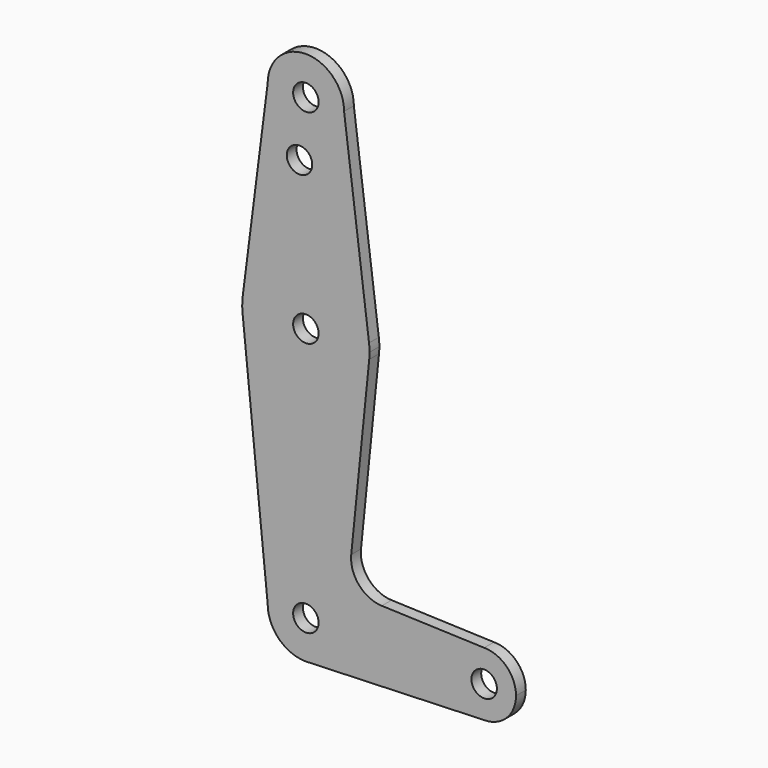
from build123d import *

# Parameters (mm, degrees)
F0_R     = 3.175
F1_DEPTH = 3.048


with BuildPart() as f1:
    # F0 (on Front) → F1 (new body)
    with BuildSketch(Plane.XZ):
        with BuildLine():
            ThreePointArc((-9.525, 114.3), (0, 104.775), (9.525, 114.3))
            ThreePointArc((9.525, 114.3), (0, 123.825), (-9.525, 114.3))
        make_face()
        with Locations((0, 114.3)):
            Circle(F0_R, mode=Mode.SUBTRACT)
        with BuildLine():
            Line((15.747457, 65.508289), (9.525, 114.3))
            ThreePointArc((9.525, 114.3), (0, 104.775), (-9.525, 114.3))
            Line((-9.525, 114.3), (-15.747457, 65.508289))
            ThreePointArc((-15.747457, 65.508289), (0, 79.375), (15.747457, 65.508289))
        make_face()
        with Locations((-1.5875, 100.0252)):
            Circle(F0_R, mode=Mode.SUBTRACT)
        with BuildLine():
            ThreePointArc((15.875, 63.5), (15.843082, 64.506168), (15.747457, 65.508289))
            ThreePointArc((15.747457, 65.508289), (0, 79.375), (-15.747457, 65.508289))
            ThreePointArc((-15.747457, 65.508289), (-15.873668, 63.705667), (-15.794203, 61.90038))
            ThreePointArc((-15.794203, 61.90038), (0, 47.625), (15.794203, 61.90038))
            ThreePointArc((15.794203, 61.90038), (15.854788, 62.699171), (15.875, 63.5))
        make_face()
        with Locations((0, 63.5)):
            Circle(F0_R, mode=Mode.SUBTRACT)
        with BuildLine():
            ThreePointArc((15.794203, 61.90038), (0, 47.625), (-15.794203, 61.90038))
            Line((-15.794203, 61.90038), (-9.525, 0))
            ThreePointArc((-9.525, 0), (0, 9.525), (9.525, 0))
            ThreePointArc((9.525, 0), (6.97129, -6.490511), (0.67949, -9.500732))
            Line((0.67949, -9.500732), (44.45, -7.9375))
            ThreePointArc((44.45, -7.9375), (36.5125, 0), (44.45, 7.9375))
            Line((44.45, 7.9375), (18.932251, 8.852361))
            ThreePointArc((18.932251, 8.852361), (13.224458, 11.573096), (11.307362, 17.598546))
            Line((11.307362, 17.598546), (15.794203, 61.90038))
        make_face()
        with BuildLine():
            ThreePointArc((9.525, 0), (0, 9.525), (-9.525, 0))
            ThreePointArc((-9.525, 0), (-6.735192, -6.735192), (0, -9.525))
            Line((0, -9.525), (0.67949, -9.500732))
            ThreePointArc((0.67949, -9.500732), (6.97129, -6.490511), (9.525, 0))
        make_face()
        Circle(F0_R, mode=Mode.SUBTRACT)
        with BuildLine():
            Line((0.67949, -9.500732), (0, -9.525))
            ThreePointArc((0, -9.525), (0.339962, -9.518931), (0.67949, -9.500732))
        make_face()
        with BuildLine():
            ThreePointArc((52.3875, 0), (50.06266, 5.61266), (44.45, 7.9375))
            ThreePointArc((44.45, 7.9375), (36.5125, 0), (44.45, -7.9375))
            ThreePointArc((44.45, -7.9375), (50.06266, -5.61266), (52.3875, 0))
        make_face()
        with Locations((44.45, 0)):
            Circle(F0_R, mode=Mode.SUBTRACT)
    extrude(amount=F1_DEPTH)


solid = f1.part
